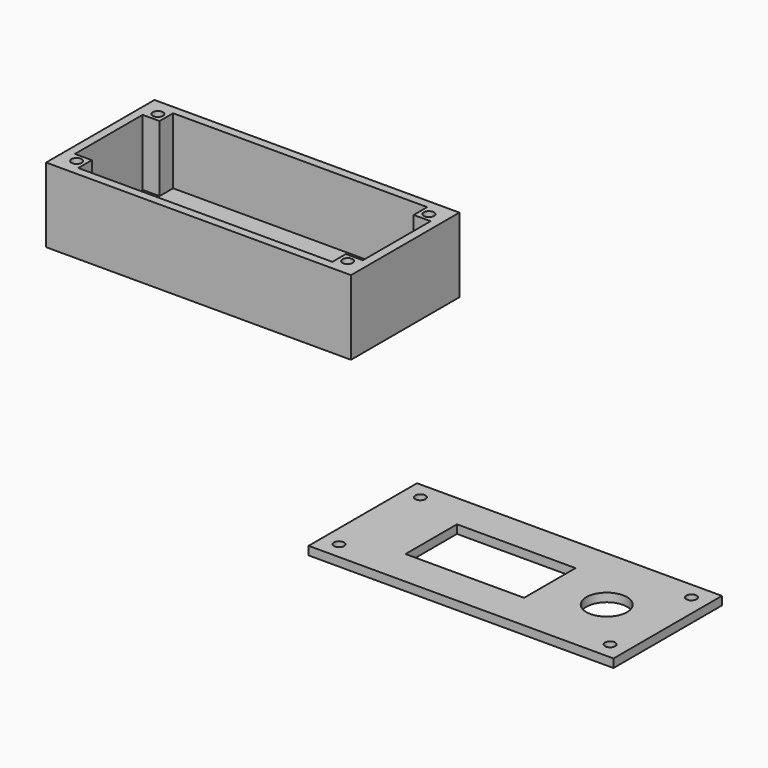
from build123d import *

# Parameters (mm, degrees)
F0_W     = 90
F0_H     = 40
F1_DEPTH = 22
F2_T     = -2.5
F3_W     = 90
F3_H     = 40
F3_R     = 1.5
F3_W_2   = 35
F3_H_2   = 19
F4_DEPTH = 2.5
F5_R     = 6
F6_DEPTH = 25
F7_W     = 5
F7_H     = 5
F8_DEPTH = 22
F9_D     = 3
F9_DEPTH = 15
F9_TIP   = 0.9012909285


with BuildPart() as f1:
    # F0 (on Top) → F1 (new body)
    with BuildSketch(Plane.XY):
        with Locations((-141.8053229451, 83.0445581675)):
            Rectangle(F0_W, F0_H)
    extrude(amount=F1_DEPTH)

    # F2
    f2_openings = [f1.faces().sort_by_distance(p)[0] for p in [
        (-141.805323, 83.044558, 22),
    ]]
    offset(amount=F2_T, openings=f2_openings)

    # F7 (on face) → F8 (join)
    with BuildSketch(Plane.XY.offset(22)):
        with Locations((-181.8053229451, 98.0445581675)):
            Rectangle(F7_W, F7_H)
        with Locations((-101.8053229451, 98.0445581675)):
            Rectangle(F7_W, F7_H)
        with Locations((-101.8053229451, 68.0445581675)):
            Rectangle(F7_W, F7_H)
        with Locations((-181.8053229451, 68.0445581675)):
            Rectangle(F7_W, F7_H)
    extrude(amount=-F8_DEPTH)

    # F9
    with Locations(Plane.XY.offset(22)):
        with Locations((-181.8053229451, 98.0445581675), (-181.8053229451, 68.0445581675), (-101.8053229451, 98.0445581675), (-101.8053229451, 68.0445581675)):
            Hole(F9_D / 2, depth=F9_DEPTH)
            with Locations((0, 0, -(F9_DEPTH + F9_TIP / 2))):  # 118° drill point
                Cone(0, F9_D / 2, F9_TIP, mode=Mode.SUBTRACT)


with BuildPart() as f4:
    # F3 (on Top) → F4 (new body)
    with BuildSketch(Plane.XY):
        with Locations((1.5602434054, 0.6989241838)):
            Rectangle(F3_W, F3_H)
        with Locations((-38.4397565946, -14.3010758162)):
            Circle(F3_R, mode=Mode.SUBTRACT)
        with Locations((41.5602434054, -14.3010758162)):
            Circle(F3_R, mode=Mode.SUBTRACT)
        with Locations((-5.9397565946, 0.9489241838)):
            Rectangle(F3_W_2, F3_H_2, mode=Mode.SUBTRACT)
        with Locations((-38.4397565946, 15.6989241838)):
            Circle(F3_R, mode=Mode.SUBTRACT)
        with Locations((41.5602434054, 15.6989241838)):
            Circle(F3_R, mode=Mode.SUBTRACT)
    extrude(amount=F4_DEPTH)

    # F5 (on face) → F6 (cut)
    with BuildSketch(Plane.XY):
        with Locations((28.5602434054, 0.6989241838)):
            Circle(F5_R)
    extrude(amount=F6_DEPTH, mode=Mode.SUBTRACT)


solid = Compound([f1.part, f4.part])
